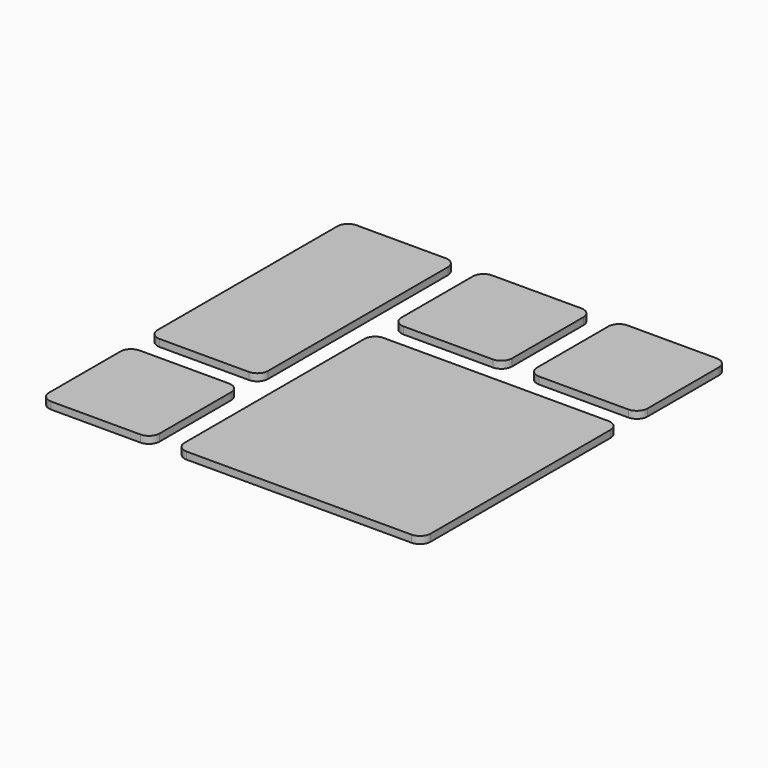
from build123d import *

# Parameters (mm, degrees)
F1_DEPTH = 1


with BuildPart() as f1:
    # F0 (on Top) → F1 (new body)
    with BuildSketch(Plane.XY):
        with BuildLine():
            Line((-12.75, -11.25), (-25.25, -11.25))
            ThreePointArc((-25.25, -11.25), (-26.31066, -11.68934), (-26.75, -12.75))
            Line((-26.75, -12.75), (-26.75, -25.25))
            ThreePointArc((-26.75, -25.25), (-26.31066, -26.31066), (-25.25, -26.75))
            Line((-25.25, -26.75), (-12.75, -26.75))
            ThreePointArc((-12.75, -26.75), (-11.68934, -26.31066), (-11.25, -25.25))
            Line((-11.25, -25.25), (-11.25, -12.75))
            ThreePointArc((-11.25, -12.75), (-11.68934, -11.68934), (-12.75, -11.25))
        make_face()
        with BuildLine():
            ThreePointArc((-7.75, -25.25), (-7.31066, -26.31066), (-6.25, -26.75))
            Line((-6.25, -26.75), (6.25, -26.75))
            Line((6.25, -26.75), (12.75, -26.75))
            Line((12.75, -26.75), (25.25, -26.75))
            ThreePointArc((25.25, -26.75), (26.31066, -26.31066), (26.75, -25.25))
            Line((26.75, -25.25), (26.75, -12.75))
            Line((26.75, -12.75), (26.75, -6.25))
            Line((26.75, -6.25), (26.75, 6.25))
            ThreePointArc((26.75, 6.25), (26.31066, 7.31066), (25.25, 7.75))
            Line((25.25, 7.75), (12.75, 7.75))
            Line((12.75, 7.75), (6.25, 7.75))
            Line((6.25, 7.75), (-6.25, 7.75))
            ThreePointArc((-6.25, 7.75), (-7.31066, 7.31066), (-7.75, 6.25))
            Line((-7.75, 6.25), (-7.75, -6.25))
            Line((-7.75, -6.25), (-7.75, -12.75))
            Line((-7.75, -12.75), (-7.75, -25.25))
        make_face()
        with BuildLine():
            ThreePointArc((26.75, 25.25), (26.31066, 26.31066), (25.25, 26.75))
            Line((25.25, 26.75), (12.75, 26.75))
            ThreePointArc((12.75, 26.75), (11.68934, 26.31066), (11.25, 25.25))
            Line((11.25, 25.25), (11.25, 12.75))
            ThreePointArc((11.25, 12.75), (11.68934, 11.68934), (12.75, 11.25))
            Line((12.75, 11.25), (25.25, 11.25))
            ThreePointArc((25.25, 11.25), (26.31066, 11.68934), (26.75, 12.75))
            Line((26.75, 12.75), (26.75, 25.25))
        make_face()
        with BuildLine():
            Line((-7.75, 25.25), (-7.75, 12.75))
            ThreePointArc((-7.75, 12.75), (-7.31066, 11.68934), (-6.25, 11.25))
            Line((-6.25, 11.25), (6.25, 11.25))
            ThreePointArc((6.25, 11.25), (7.31066, 11.68934), (7.75, 12.75))
            Line((7.75, 12.75), (7.75, 25.25))
            ThreePointArc((7.75, 25.25), (7.31066, 26.31066), (6.25, 26.75))
            Line((6.25, 26.75), (-6.25, 26.75))
            ThreePointArc((-6.25, 26.75), (-7.31066, 26.31066), (-7.75, 25.25))
        make_face()
        with BuildLine():
            ThreePointArc((-25.25, 26.75), (-26.31066, 26.31066), (-26.75, 25.25))
            Line((-26.75, 25.25), (-26.75, 12.75))
            Line((-26.75, 12.75), (-26.75, 6.25))
            Line((-26.75, 6.25), (-26.75, -6.25))
            ThreePointArc((-26.75, -6.25), (-26.31066, -7.31066), (-25.25, -7.75))
            Line((-25.25, -7.75), (-12.75, -7.75))
            ThreePointArc((-12.75, -7.75), (-11.68934, -7.31066), (-11.25, -6.25))
            Line((-11.25, -6.25), (-11.25, 6.25))
            Line((-11.25, 6.25), (-11.25, 12.75))
            Line((-11.25, 12.75), (-11.25, 25.25))
            ThreePointArc((-11.25, 25.25), (-11.68934, 26.31066), (-12.75, 26.75))
            Line((-12.75, 26.75), (-25.25, 26.75))
        make_face()
    extrude(amount=F1_DEPTH)


solid = f1.part
